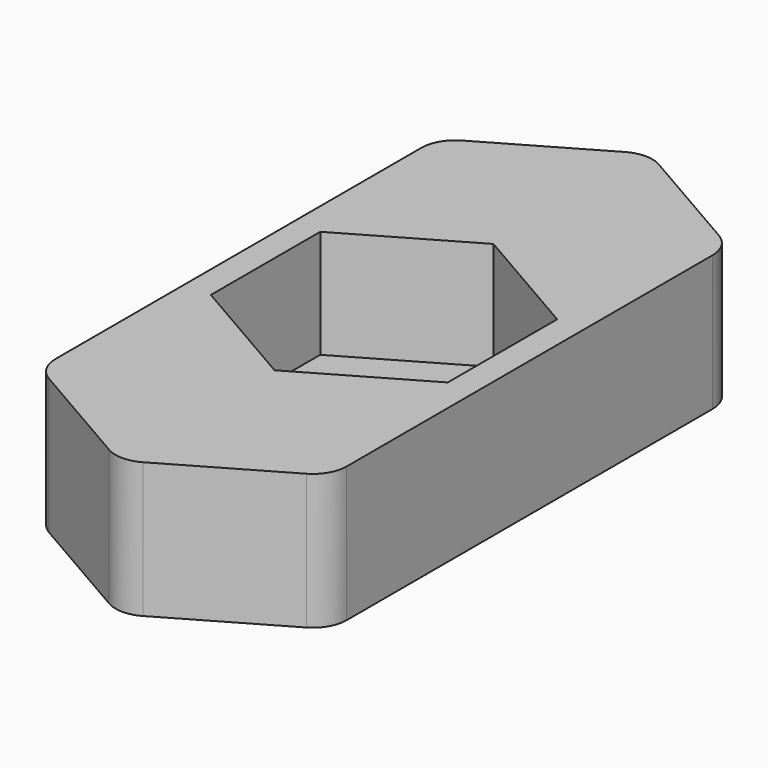
from build123d import *

# Parameters (mm, degrees)
F0_R     = 2.15
F1_DEPTH = 4
F2_DEPTH = 3.2
F3_R     = 1


with BuildPart() as f1:
    # F0 (on Top) → F1 (new body)
    with BuildSketch(Plane.XY):
        Polygon((4.3, -7.332348), (4.3, 7.332348), (0, 9.814955), (-4.3, 7.332348), (-4.3, -7.332348), (0, -9.814955), align=None)
        Polygon((0, 4.041452), (3.5, 2.020726), (3.5, -2.020726), (0, -4.041452), (-3.5, -2.020726), (-3.5, 2.020726), align=None, mode=Mode.SUBTRACT)
        Polygon((3.5, -2.020726), (3.5, 2.020726), (0, 4.041452), (-3.5, 2.020726), (-3.5, -2.020726), (0, -4.041452), align=None)
        Circle(F0_R, mode=Mode.SUBTRACT)
    extrude(amount=-F1_DEPTH)

    # F0 (on Top) → F2 (cut)
    with BuildSketch(Plane.XY):
        Polygon((3.5, -2.020726), (3.5, 2.020726), (0, 4.041452), (-3.5, 2.020726), (-3.5, -2.020726), (0, -4.041452), align=None)
        Circle(F0_R, mode=Mode.SUBTRACT)
    extrude(amount=-F2_DEPTH, mode=Mode.SUBTRACT)

    # F3
    f3_edges = [f1.edges().sort_by_distance(p)[0] for p in [
        (-4.3, 7.332348, -2),
        (0, 9.814955, -2),
        (4.3, 7.332348, -2),
        (4.3, -7.332348, -2),
        (0, -9.814955, -2),
        (-4.3, -7.332348, -2),
    ]]
    fillet(f3_edges, radius=F3_R)


solid = f1.part
